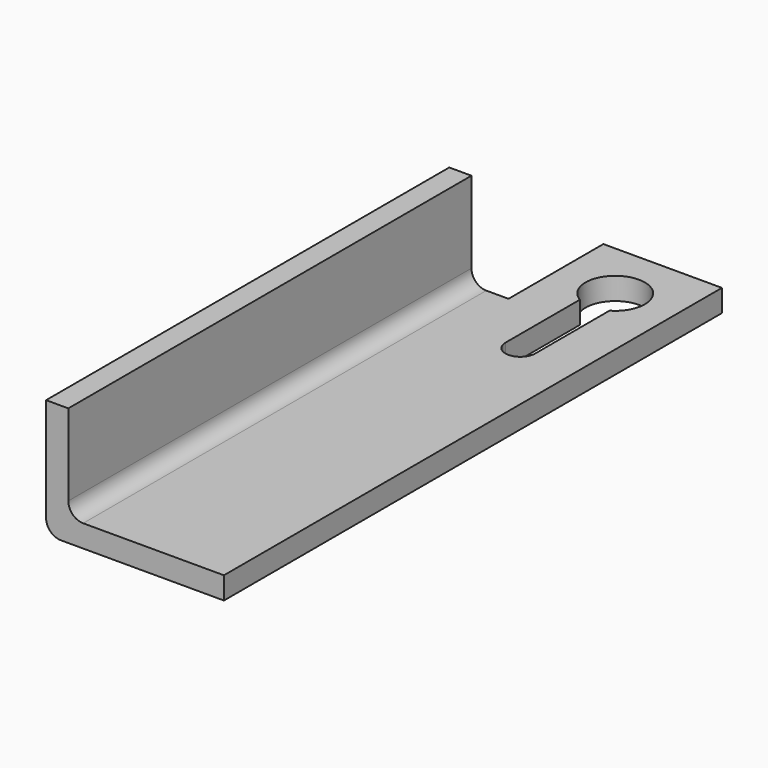
from build123d import *

# Parameters (mm, degrees)
F1_DEPTH = 215.9
F2_W     = 50.8
F2_H     = 9.525
F3_DEPTH = 50.8
F5_DEPTH = 50.801


with BuildPart() as f1:
    # F0 (on Front) → F1 (new body)
    with BuildSketch(Plane.XZ):
        with BuildLine():
            Line((9.525, 50.8), (0, 50.8))
            Line((0, 50.8), (0, 6.35))
            ThreePointArc((0, 6.35), (1.859872, 1.859872), (6.35, 0))
            Line((6.35, 0), (76.2, 0))
            Line((76.2, 0), (76.2, 9.525))
            Line((76.2, 9.525), (15.875, 9.525))
            ThreePointArc((15.875, 9.525), (11.384872, 11.384872), (9.525, 15.875))
            Line((9.525, 15.875), (9.525, 50.8))
        make_face()
    extrude(amount=F1_DEPTH)

    # F2 (on face) → F3 (join)
    with BuildSketch(Plane(origin=(0, 0, 0), x_dir=(-1, 0, 0), z_dir=(0, 1, 0))):
        with Locations((-50.8, 4.7625)):
            Rectangle(F2_W, F2_H)
    extrude(amount=F3_DEPTH)

    # F4 (on face) → F5 (cut, through all)
    with BuildSketch(Plane(origin=(0, 0, 0), x_dir=(1, 0, 0), z_dir=(0, 0, -1))):
        with BuildLine():
            Line((44.45, 25.4), (44.45, -14.401477))
            ThreePointArc((44.45, -14.401477), (50.8, -38.1), (57.15, -14.401477))
            Line((57.15, -14.401477), (57.15, 25.4))
            ThreePointArc((57.15, 25.4), (50.8, 31.75), (44.45, 25.4))
        make_face()
    extrude(amount=-F5_DEPTH, mode=Mode.SUBTRACT)


solid = f1.part
